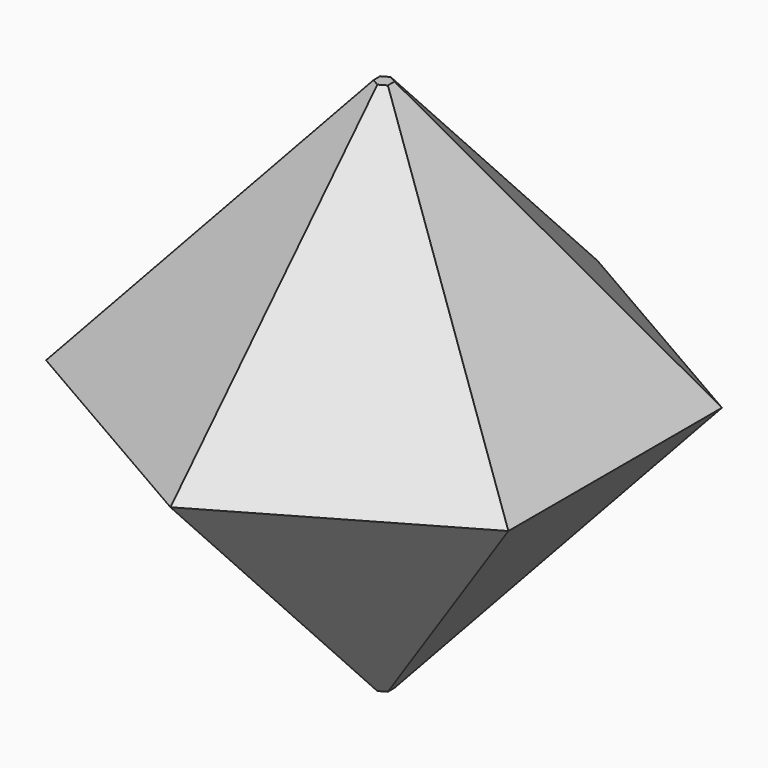
from build123d import *

# Parameters (mm, degrees)
PAD_DEPTH = 15
PAD_TAPER = 40


with BuildPart() as part:
    # Sketch (on XY_Plane of Origin) → Pad (new body, symmetric)
    with BuildSketch(Plane.XY):
        Polygon((0, -15), (12.990381, -7.5), (12.990381, 7.5), (0, 15), (-12.990381, 7.5), (-12.990381, -7.5), align=None)
    extrude(amount=PAD_DEPTH, both=True, taper=PAD_TAPER)


solid = part.part
